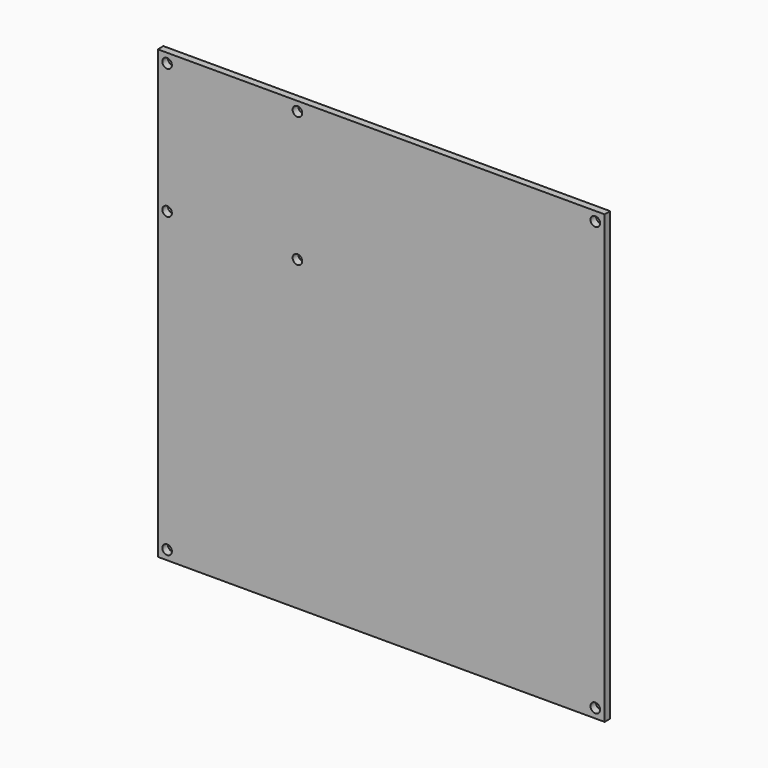
from build123d import *

# Parameters (mm, degrees)
F0_W     = 304.8
F0_H     = 304.8
F0_W_2   = 88.9
F0_H_2   = 88.9
F0_R     = 12.7
F1_DEPTH = 4.7625
F2_D     = 6.5278
F3_D     = 6.5278


with BuildPart() as f1:
    # F0 (on Front) → F1 (new body)
    with BuildSketch(Plane.XZ):
        Rectangle(F0_W, F0_H)
        with Locations((-101.6, 101.6)):
            Rectangle(F0_W_2, F0_H_2, mode=Mode.SUBTRACT)
        with Locations((-101.6, 101.6)):
            Rectangle(F0_W_2, F0_H_2)
        with Locations((-101.6, 101.6)):
            Circle(F0_R, mode=Mode.SUBTRACT)
        with Locations((-101.6, 101.6)):
            Circle(F0_R)
    extrude(amount=-F1_DEPTH)

    # F2 (through all)
    with Locations(Plane.XZ):
        with Locations((-146.05, 146.05), (146.05, -146.05), (146.05, 146.05), (-146.05, -146.05)):
            Hole(F2_D / 2)

    # F3 (through all)
    with Locations(Plane.XZ):
        with Locations((-146.05, 146.05), (-57.15, 146.05), (-57.15, 57.15), (-146.05, 57.15)):
            Hole(F3_D / 2)


solid = f1.part
